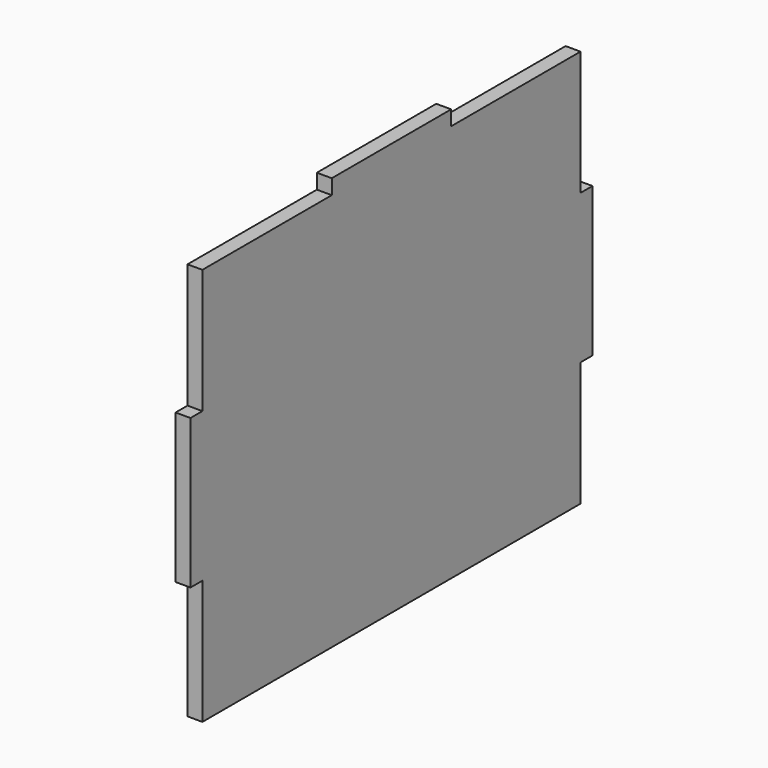
from build123d import *

# Parameters (mm, degrees)
F0_W     = 30
F0_H     = 3
F0_W_2   = 3
F0_H_2   = 30
F1_DEPTH = 3


with BuildPart() as f1:
    # F0 (on Right) → F1 (new body)
    with BuildSketch(Plane.YZ):
        Polygon((-6.222634, 42.35416), (-38.722634, 42.35416), (-38.722634, 17.35416), (-38.722634, -12.64584), (-38.722634, -37.64584), (56.277366, -37.64584), (56.277366, -12.64584), (56.277366, 17.35416), (56.277366, 42.35416), (23.777366, 42.35416), align=None)
        with Locations((8.777366, 43.85416)):
            Rectangle(F0_W, F0_H)
        with Locations((-40.222634, 2.35416)):
            Rectangle(F0_W_2, F0_H_2)
        with Locations((57.777366, 2.35416)):
            Rectangle(F0_W_2, F0_H_2)
    extrude(amount=F1_DEPTH)


solid = f1.part
